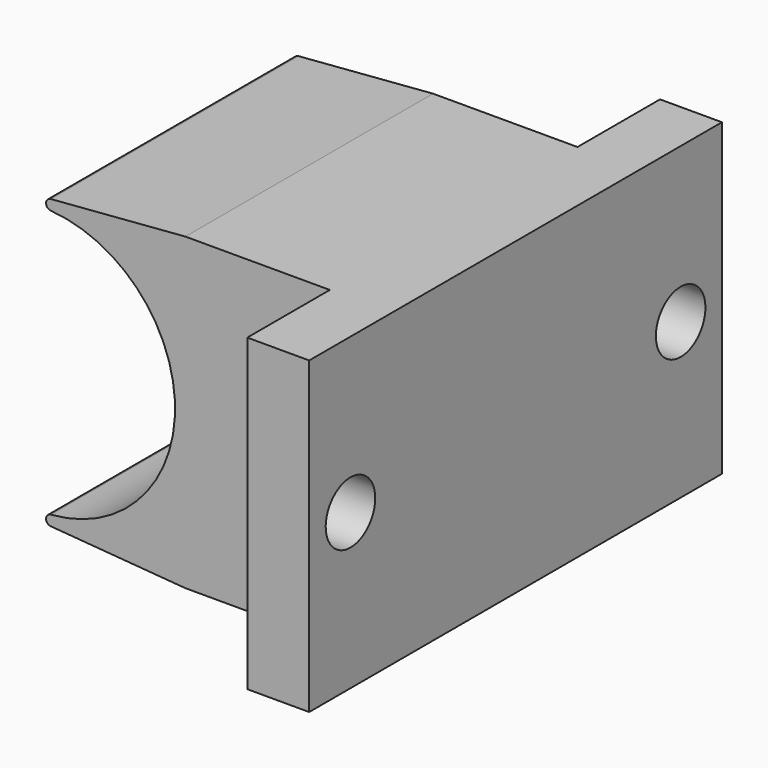
from build123d import *

# Parameters (mm, degrees)
SKETCH003_W     = 5
SKETCH003_H     = 25
SKETCH003_R     = 1.5
PAD001_DEPTH    = 10
SKETCH004_W     = 5
SKETCH004_H     = 5
POCKET002_DEPTH = 7
PAD009_DEPTH    = 5
PAD010_DEPTH    = 5
PAD011_DEPTH    = 15


with BuildPart() as part:
    # Sketch003 (on DatumPlane) → Pad001 (new body)
    with BuildSketch(Plane(origin=(0, 0, 0), x_dir=(0, 0, -1), z_dir=(-1, 0, 0))):
        with Locations((-10, 20)):
            Rectangle(SKETCH003_W, SKETCH003_H)
        with Locations((-10, 30)):
            Circle(SKETCH003_R, mode=Mode.SUBTRACT)
        with Locations((-10, 10)):
            Circle(SKETCH003_R, mode=Mode.SUBTRACT)
    extrude(amount=PAD001_DEPTH)

    # Sketch004 (on Face8 of Pad001) → Pocket002 (cut)
    with BuildSketch(Plane(origin=(-10, 0, 0), x_dir=(0, 0, -1), z_dir=(-1, 0, 0))):
        with Locations((-10, 30)):
            Rectangle(SKETCH004_W, SKETCH004_H)
        with Locations((-10, 10)):
            Rectangle(SKETCH004_W, SKETCH004_H)
    extrude(amount=-POCKET002_DEPTH, mode=Mode.SUBTRACT)

    # Pocket002 Face3 → Pad009 (add)
    with BuildSketch(Plane(origin=(-4.416667, -20, 7.5), x_dir=(0, -1, 0), z_dir=(0, 0, -1))):
        Polygon((-12.5, -4.416667), (12.5, -4.416667), (12.5, -1.416667), (7.5, -1.416667), (7.5, 5.583333), (-7.5, 5.583333), (-7.5, -1.416667), (-12.5, -1.416667), align=None)
    extrude(amount=PAD009_DEPTH)

    # Pad009 Face3 → Pad010 (add)
    with BuildSketch(Plane(origin=(-4.416667, -20, 12.5), x_dir=(0, 1, 0), z_dir=(0, 0, 1))):
        Polygon((-12.5, -4.416667), (12.5, -4.416667), (12.5, -1.416667), (7.5, -1.416667), (7.5, 5.583333), (-7.5, 5.583333), (-7.5, -1.416667), (-12.5, -1.416667), align=None)
    extrude(amount=PAD010_DEPTH)

    # Sketch020 (on Face11 of Pad010) → Pad011 (join)
    with BuildSketch(Plane(origin=(0, -12.5, 0), x_dir=(0, 0, -1), z_dir=(0, 1, 0))):
        with BuildLine():
            ThreePointArc((-16.482143, 16.518519), (-10, 10.5), (-3.517857, 16.518519))
            ThreePointArc((-3.019333, 16.519851), (-3.269212, 16.749999), (-3.517857, 16.518519))
            Line((-2.5, 10), (-3.019333, 16.519851))
            Line((-2.5, 10), (-10, 10))
            Line((-17.5, 10), (-10, 10))
            Line((-17.5, 10), (-16.980667, 16.519851))
            ThreePointArc((-16.482143, 16.518519), (-16.730788, 16.749999), (-16.980667, 16.519851))
        make_face()
    extrude(amount=-PAD011_DEPTH)


solid = part.part
